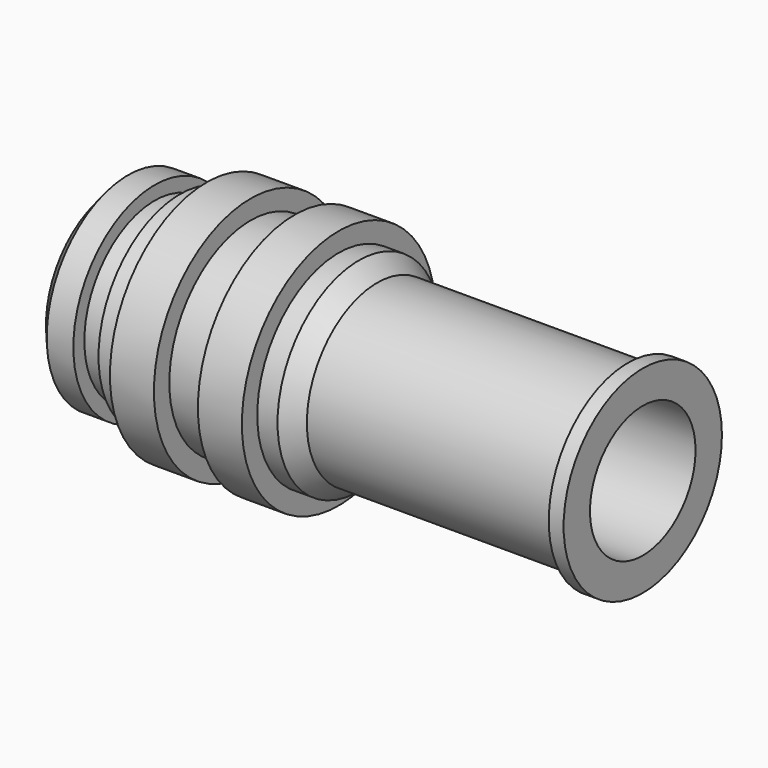
from build123d import *


with BuildPart() as f2:
    # F1 (on Top) → F2 (revolve)
    with BuildSketch(Plane.XY):
        Polygon((-2.157011, 11), (-6.157011, 11), (-6.157011, 9.25), (-8.594902, 9.25), (-8.594902, 8), (-10.884183, 8), (-10.884183, 9.25), (-13.309507, 9.25), (-14.563804, 7.765479), (-14.563804, 6), (33.504616, 6), (33.504616, 9), (32.152202, 9), (32.152202, 8), (9.353039, 8), (7.685632, 9.25), (5.842989, 9.25), (5.842989, 11), (1.842989, 11), (1.842989, 9.25), (-2.157011, 9.25), align=None)
    revolve(axis=Axis((26.619639, 0, 0), (1, 0, 0)))


solid = f2.part
